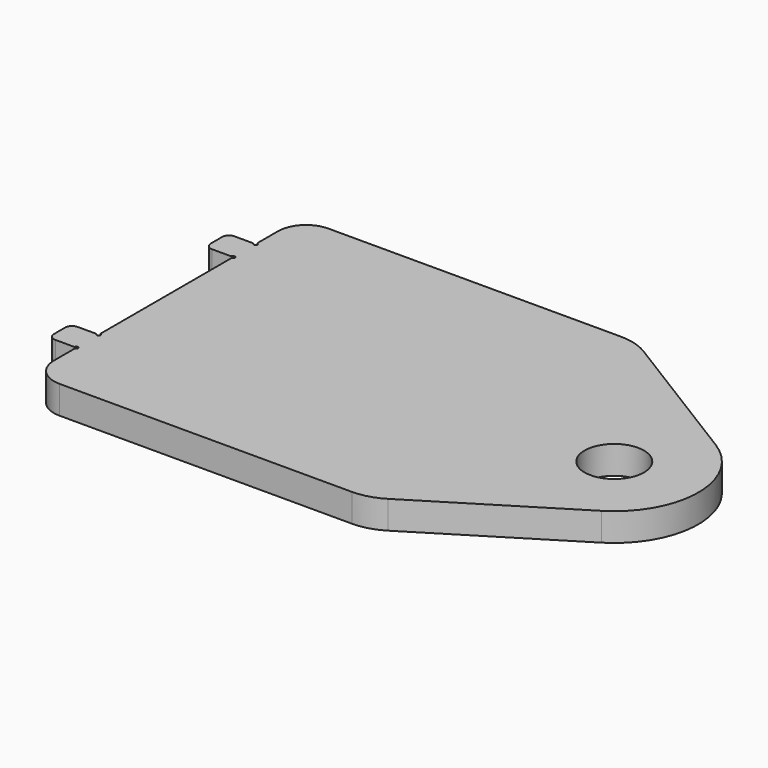
from build123d import *

# Parameters (mm, degrees)
F0_R     = 6.731
F1_DEPTH = 6.35


with BuildPart() as f1:
    # F0 (on Top) → F1 (new body)
    with BuildSketch(Plane.XY):
        with BuildLine():
            ThreePointArc((41.16957, 36.202267), (37.962568, 37.616358), (34.49117, 38.1))
            Line((34.49117, 38.1), (-31.75, 38.1))
            ThreePointArc((-31.75, 38.1), (-36.240128, 36.240128), (-38.1, 31.75))
            Line((-38.1, 31.75), (-38.1, 26.032016))
            ThreePointArc((-38.1, 26.032016), (-38.053327, 25.869925), (-37.927602, 25.757475))
            ThreePointArc((-37.927602, 25.757475), (-37.819367, 25.119367), (-38.457475, 25.227602))
            ThreePointArc((-38.457475, 25.227602), (-38.569925, 25.353327), (-38.732016, 25.4))
            Line((-38.732016, 25.4), (-42.8625, 25.4))
            ThreePointArc((-42.8625, 25.4), (-43.985032, 24.935032), (-44.45, 23.8125))
            Line((-44.45, 23.8125), (-44.45, 20.6375))
            ThreePointArc((-44.45, 20.6375), (-43.985032, 19.514968), (-42.8625, 19.05))
            Line((-42.8625, 19.05), (-38.732016, 19.05))
            ThreePointArc((-38.732016, 19.05), (-38.569925, 19.096673), (-38.457475, 19.222398))
            ThreePointArc((-38.457475, 19.222398), (-37.819367, 19.330633), (-37.927602, 18.692525))
            ThreePointArc((-37.927602, 18.692525), (-38.053327, 18.580075), (-38.1, 18.417984))
            Line((-38.1, 18.417984), (-38.1, -18.417984))
            ThreePointArc((-38.1, -18.417984), (-38.053327, -18.580075), (-37.927602, -18.692525))
            ThreePointArc((-37.927602, -18.692525), (-37.819367, -19.330633), (-38.457475, -19.222398))
            ThreePointArc((-38.457475, -19.222398), (-38.569925, -19.096673), (-38.732016, -19.05))
            Line((-38.732016, -19.05), (-42.8625, -19.05))
            ThreePointArc((-42.8625, -19.05), (-43.985032, -19.514968), (-44.45, -20.6375))
            Line((-44.45, -20.6375), (-44.45, -23.8125))
            ThreePointArc((-44.45, -23.8125), (-43.985032, -24.935032), (-42.8625, -25.4))
            Line((-42.8625, -25.4), (-38.732016, -25.4))
            ThreePointArc((-38.732016, -25.4), (-38.569925, -25.353327), (-38.457475, -25.227602))
            ThreePointArc((-38.457475, -25.227602), (-37.819367, -25.119367), (-37.927602, -25.757475))
            ThreePointArc((-37.927602, -25.757475), (-38.053327, -25.869925), (-38.1, -26.032016))
            Line((-38.1, -26.032016), (-38.1, -31.75))
            ThreePointArc((-38.1, -31.75), (-36.240128, -36.240128), (-31.75, -38.1))
            Line((-31.75, -38.1), (34.49117, -38.1))
            ThreePointArc((34.49117, -38.1), (37.962568, -37.616358), (41.16957, -36.202267))
            Line((41.16957, -36.202267), (73.5176, -16.2034))
            ThreePointArc((73.5176, -16.2034), (82.55, 0), (73.5176, 16.2034))
            Line((73.5176, 16.2034), (41.16957, 36.202267))
        make_face()
        with Locations((63.5, 0)):
            Circle(F0_R, mode=Mode.SUBTRACT)
    extrude(amount=F1_DEPTH)


solid = f1.part
